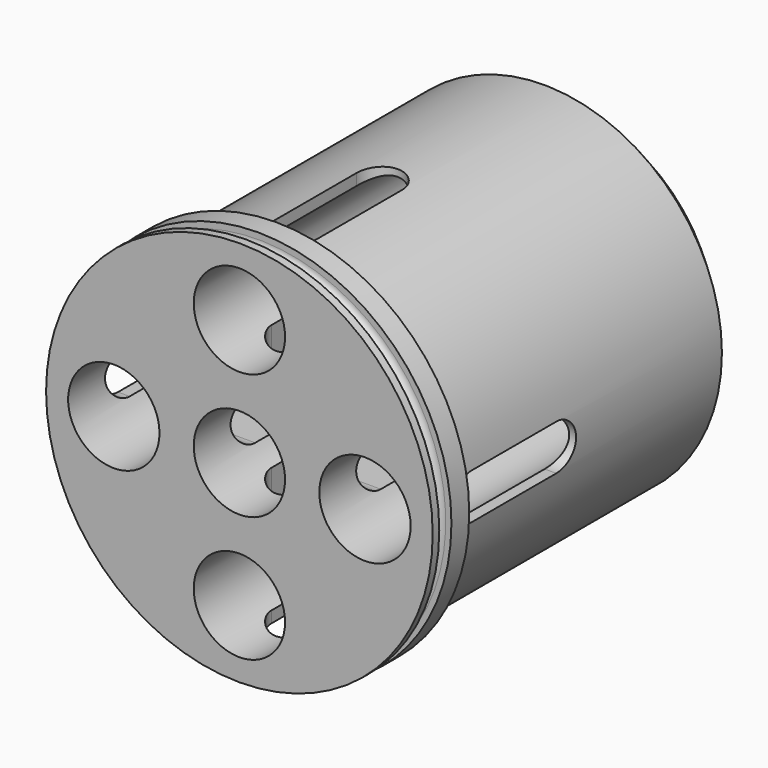
from build123d import *

# Parameters (mm, degrees)
F0_R     = 11.7
F0_R_2   = 3
F0_R_3   = 12.7
F1_DEPTH = 3
F2_DEPTH = 27
F3_DEPTH = 25
F5_DEPTH = 15
F7_DEPTH = 15
F11_SIZE = 2


with BuildPart() as f1:
    # F0 (on Front) → F1 (new body)
    with BuildSketch(Plane.XZ):
        with Locations((-0.008065, 0.0265)):
            Circle(F0_R)
        with Locations((-0.008065, -8.2235)):
            Circle(F0_R_2, mode=Mode.SUBTRACT)
        with Locations((-8.258065, 0.0265)):
            Circle(F0_R_2, mode=Mode.SUBTRACT)
        with Locations((-0.008065, 0.0265)):
            Circle(F0_R_2, mode=Mode.SUBTRACT)
        with Locations((8.241935, 0.0265)):
            Circle(F0_R_2, mode=Mode.SUBTRACT)
        with Locations((-0.008065, 8.2765)):
            Circle(F0_R_2, mode=Mode.SUBTRACT)
        with Locations((-0.008065, 0.0265)):
            Circle(F0_R_3)
        with Locations((-0.008065, 0.0265)):
            Circle(F0_R, mode=Mode.SUBTRACT)
        with Locations((-8.258065, 0.0265)):
            Circle(F0_R_2)
        with Locations((-0.008065, -8.2235)):
            Circle(F0_R_2)
        with Locations((8.241935, 0.0265)):
            Circle(F0_R_2)
        with Locations((-0.008065, 8.2765)):
            Circle(F0_R_2)
    extrude(amount=-F1_DEPTH)

    # F0 (on Front) → F2 (join)
    with BuildSketch(Plane.XZ):
        with Locations((-0.008065, 0.0265)):
            Circle(F0_R)
        with Locations((-0.008065, -8.2235)):
            Circle(F0_R_2, mode=Mode.SUBTRACT)
        with Locations((-8.258065, 0.0265)):
            Circle(F0_R_2, mode=Mode.SUBTRACT)
        with Locations((-0.008065, 0.0265)):
            Circle(F0_R_2, mode=Mode.SUBTRACT)
        with Locations((8.241935, 0.0265)):
            Circle(F0_R_2, mode=Mode.SUBTRACT)
        with Locations((-0.008065, 8.2765)):
            Circle(F0_R_2, mode=Mode.SUBTRACT)
        with Locations((-8.258065, 0.0265)):
            Circle(F0_R_2)
        with Locations((-0.008065, 8.2765)):
            Circle(F0_R_2)
        with Locations((8.241935, 0.0265)):
            Circle(F0_R_2)
        with Locations((-0.008065, -8.2235)):
            Circle(F0_R_2)
    extrude(amount=-F2_DEPTH)

    # F0 (on Front) → F3 (cut)
    with BuildSketch(Plane.XZ):
        with Locations((-8.258065, 0.0265)):
            Circle(F0_R_2)
        with Locations((-0.008065, 8.2765)):
            Circle(F0_R_2)
        with Locations((8.241935, 0.0265)):
            Circle(F0_R_2)
        with Locations((-0.008065, -8.2235)):
            Circle(F0_R_2)
    extrude(amount=-F3_DEPTH, mode=Mode.SUBTRACT)

    # F4 (on Top) → F5 (cut, symmetric)
    with BuildSketch(Plane.XY):
        with BuildLine():
            ThreePointArc((1.5, 11.5), (0, 13), (-1.5, 11.5))
            Line((-1.5, 11.5), (-1.5, 4.5))
            ThreePointArc((-1.5, 4.5), (0, 3), (1.5, 4.5))
            Line((1.5, 4.5), (1.5, 11.5))
        make_face()
    extrude(amount=F5_DEPTH, both=True, mode=Mode.SUBTRACT)

    # F6 (on Right) → F7 (cut, symmetric)
    with BuildSketch(Plane.YZ):
        with BuildLine():
            ThreePointArc((3.025873, 0), (3.465212, -1.06066), (4.525873, -1.5))
            Line((4.525873, -1.5), (11.525873, -1.5))
            ThreePointArc((11.525873, -1.5), (13.025873, 0), (11.525873, 1.5))
            Line((11.525873, 1.5), (4.525873, 1.5))
            ThreePointArc((4.525873, 1.5), (3.465212, 1.06066), (3.025873, 0))
        make_face()
    extrude(amount=F7_DEPTH, both=True, mode=Mode.SUBTRACT)

    # F8 (on Top) → F9 (revolve, cut)
    with BuildSketch(Plane.XY):
        with BuildLine():
            Line((-13.744461, 0.538489), (-12.316881, 0.538489))
            ThreePointArc((-12.316881, 0.538489), (-11.816881, 1.038489), (-12.316881, 1.538489))
            Line((-12.316881, 1.538489), (-12.716881, 1.538489))
            Line((-12.716881, 1.538489), (-13.744461, 1.538489))
            Line((-13.744461, 1.538489), (-13.744461, 0.538489))
        make_face()
    revolve(axis=Axis((0, 1.278264, 0), (0, 1, 0)), mode=Mode.SUBTRACT)

    # F8 (on Top) → F10 (revolve, cut)
    with BuildSketch(Plane.XY):
        with BuildLine():
            Line((-13.744461, 0.538489), (-12.316881, 0.538489))
            ThreePointArc((-12.316881, 0.538489), (-11.816881, 1.038489), (-12.316881, 1.538489))
            Line((-12.316881, 1.538489), (-12.716881, 1.538489))
            Line((-12.716881, 1.538489), (-13.744461, 1.538489))
            Line((-13.744461, 1.538489), (-13.744461, 0.538489))
        make_face()
    revolve(axis=Axis((0, 1.278264, 0), (0, 1, 0)), mode=Mode.SUBTRACT)

    # F11
    f11_edges = [f1.edges().sort_by_distance(p)[0] for p in [
        (-11.708065, 27, 0.0265),
    ]]
    chamfer(f11_edges, length=F11_SIZE)


solid = f1.part
